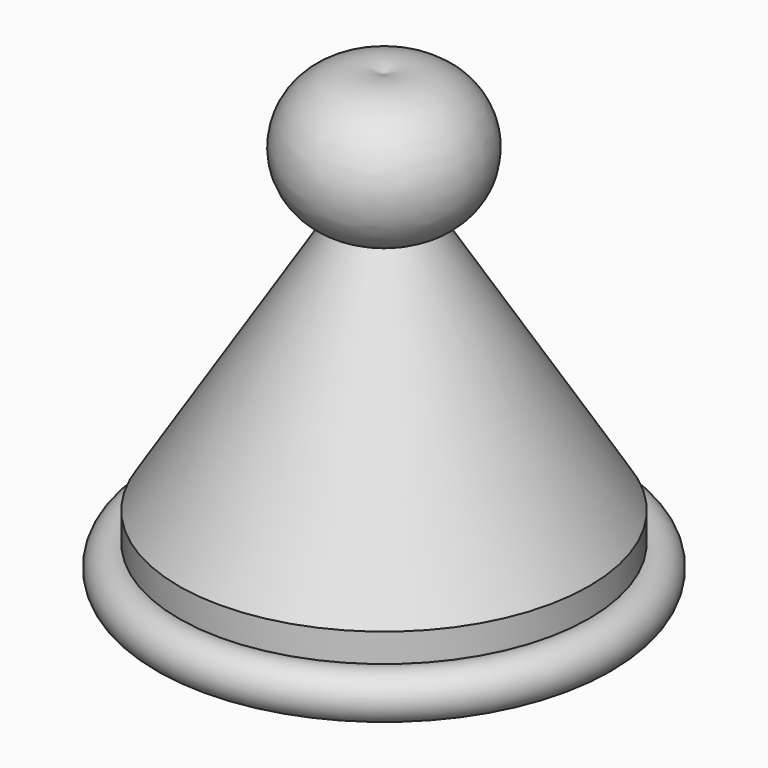
from build123d import *


with BuildPart() as f1:
    # F0 (on Front) → F1 (revolve)
    with BuildSketch(Plane.XZ):
        with BuildLine():
            ThreePointArc((5.089767, 15.553813), (9.72736, 25.281173), (0, 29.918765))
            Line((0, 29.918765), (0, -16.055235))
            Line((0, -16.055235), (0, -20.881235))
            Line((0, -20.881235), (22.86, -20.881235))
            ThreePointArc((22.86, -20.881235), (26.193115, -18.468235), (22.86, -16.055235))
            Line((22.86, -16.055235), (22.86, -12.877607))
            Line((22.86, -12.877607), (5.089767, 15.553813))
        make_face()
    revolve(axis=Axis((0, 0, 4.518765), (0, 0, -1)))


solid = f1.part
